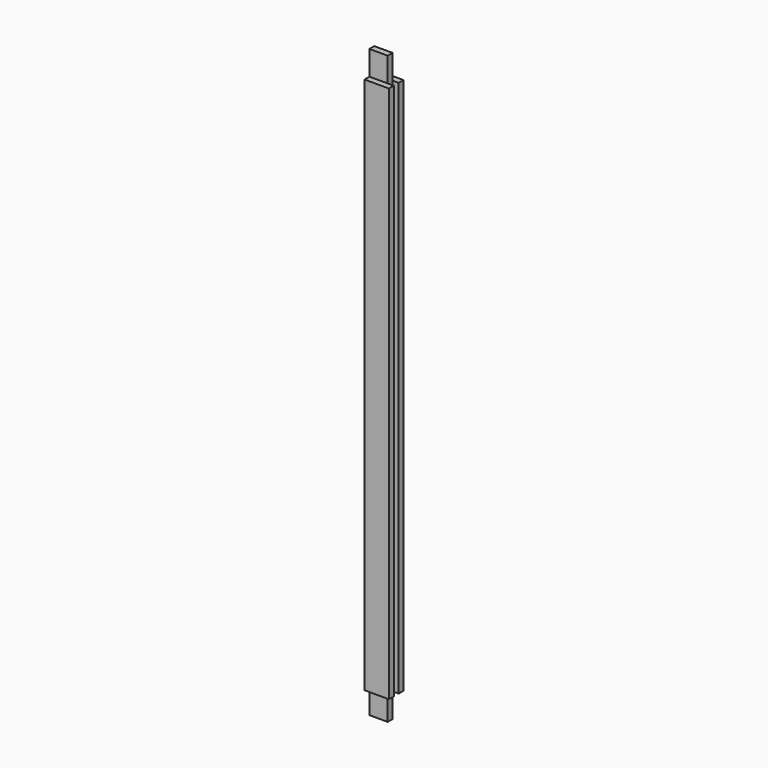
from build123d import *

# Parameters (mm, degrees)
F0_W     = 6.3500026588
F0_H     = 558.8
F0_W_2   = 6.35
F0_H_2   = 25.4
F0_W_3   = 6.3499973412
F1_DEPTH = 25.4
F2_W     = 6.35
F2_H     = 6.35
F3_DEPTH = 609.601


with BuildPart() as f1:
    # F0 (on Right) → F1 (new body)
    with BuildSketch(Plane.YZ):
        with Locations((3.1750013294, -279.4)):
            Rectangle(F0_W, F0_H)
        with Locations((9.5250026588, 12.7)):
            Rectangle(F0_W_2, F0_H_2)
        with Locations((9.5250026588, -279.4)):
            Rectangle(F0_W_2, F0_H)
        with Locations((15.8750013294, -279.4)):
            Rectangle(F0_W_3, F0_H)
        with Locations((9.5250026588, -571.5)):
            Rectangle(F0_W_2, F0_H_2)
    extrude(amount=F1_DEPTH)

    # F2 (on face) → F3 (cut, through all)
    with BuildSketch(Plane.XY.offset(25.4)):
        with Locations((22.225, 9.5250026588)):
            Rectangle(F2_W, F2_H)
    extrude(amount=-F3_DEPTH, mode=Mode.SUBTRACT)


solid = f1.part
